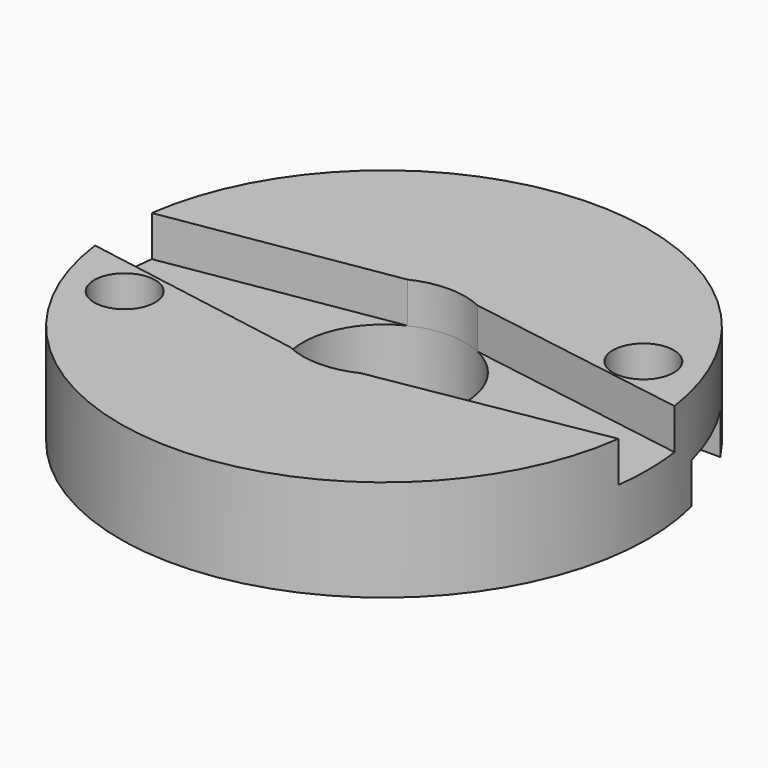
from build123d import *

# Parameters (mm, degrees)
CYLINDER_R         = 13
CYLINDER_DEPTH     = 5
POCKET_DEPTH       = 2
SKETCH001_R        = 4
POCKET001_DEPTH    = 5.001
SKETCH002_R        = 1.5
POCKET002_DEPTH    = 5.001
POCKET003_DEPTH    = 2
POLARPATTERN_COUNT = 2


with BuildPart() as part:
    # Cylinder → Cylinder (new body)
    with BuildSketch(Plane.XY.offset(1)):
        Circle(CYLINDER_R)
    extrude(amount=CYLINDER_DEPTH)

    # Sketch → Pocket (cut)
    with BuildSketch(Plane.XY.offset(6)):
        with BuildLine():
            ThreePointArc((1.723508, 3.609643), (0, 4), (-1.723508, 3.609643))
            Line((-14.42367, 1.54169), (-1.723508, 3.609643))
            ThreePointArc((-14.42367, 1.54169), (-15.682586, 0.068213), (-14.437528, -1.416991))
            Line((-14.437528, -1.416991), (-1.723508, -3.609643))
            ThreePointArc((-1.723508, -3.609643), (0, -4), (1.723508, -3.609643))
            Line((1.723508, -3.609643), (14.437528, -1.416991))
            ThreePointArc((14.437528, -1.416991), (15.682586, 0.068213), (14.42367, 1.54169))
            Line((1.723508, 3.609643), (14.42367, 1.54169))
        make_face()
    extrude(amount=-POCKET_DEPTH, mode=Mode.SUBTRACT)

    # Sketch001 → Pocket001 (cut, through all)
    with BuildSketch(Plane.XY.offset(6)):
        Circle(SKETCH001_R)
    extrude(amount=-POCKET001_DEPTH, mode=Mode.SUBTRACT)

    # Sketch002 → Pocket002 (cut, through all)
    with BuildSketch(Plane.XY.offset(6)):
        with Locations((-9.617032, -3.94996)):
            Circle(SKETCH002_R)
        with Locations((9.617032, 3.94996)):
            Circle(SKETCH002_R)
    extrude(amount=-POCKET002_DEPTH, mode=Mode.SUBTRACT)

    # Sketch003 → Pocket003 (cut)
    with BuildSketch(Plane(origin=(0, 0, 1), x_dir=(1, 0, 0), z_dir=(0, 0, -1))):
        Polygon((-11.354812, 7.074793), (-7.854812, 7.074793), (-6.104812, 4.043704), (-7.854812, 1.012615), (-11.354812, 1.012615), (-13.104812, 4.043704), align=None)
    pocket003 = extrude(amount=-POCKET003_DEPTH, mode=Mode.SUBTRACT)

    # PolarPattern: Pocket003 ×2 about axis
    polarpattern_axis = Axis((0, 0, 1), (0, 0, -1))
    for i in range(1, POLARPATTERN_COUNT):
        add(pocket003.rotate(polarpattern_axis, i * 360 / POLARPATTERN_COUNT), mode=Mode.SUBTRACT)


solid = part.part
